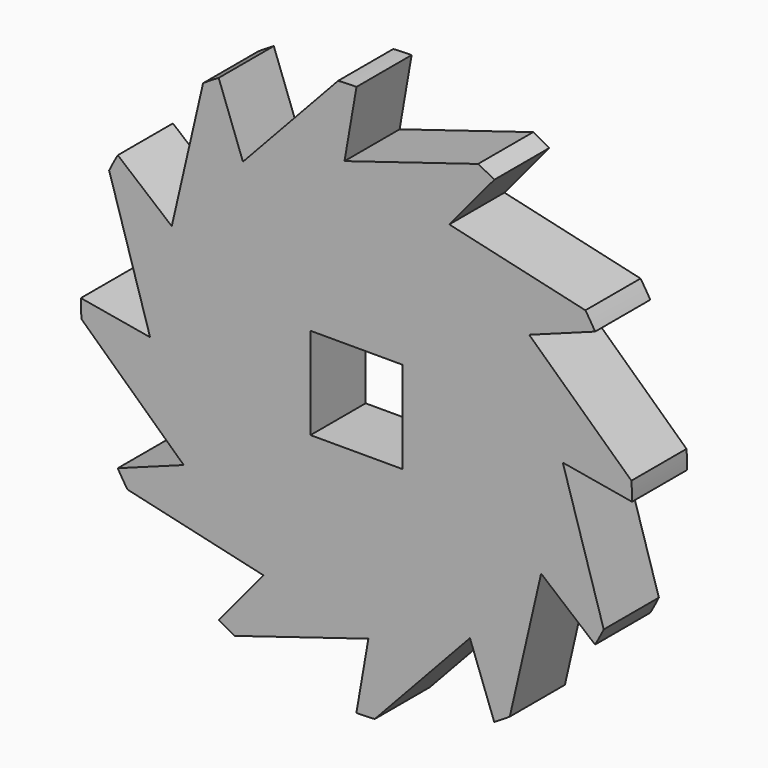
from build123d import *

# Parameters (mm, degrees)
F0_W     = 10
F0_H     = 10
F1_DEPTH = 3.75


with BuildPart() as f1:
    # F0 (on Front) → F1 (new body, symmetric)
    with BuildSketch(Plane.XZ):
        with BuildLine():
            Line((13.240477, 26.920062), (-1.299121, 22.463483))
            Line((-1.299121, 22.463483), (0.005236, 30))
            ThreePointArc((0.005236, 30), (-0.994655, 29.983506), (-1.993441, 29.933697))
            Line((-1.993441, 29.933697), (-12.356813, 18.804386))
            Line((-12.356813, 18.804386), (-14.995465, 25.98338))
            ThreePointArc((-14.995465, 25.98338), (-15.85315, 25.469151), (-16.693219, 24.926621))
            Line((-16.693219, 24.926621), (-20.103507, 10.10667))
            Line((-20.103507, 10.10667), (-25.978144, 15.004534))
            ThreePointArc((-25.978144, 15.004534), (-26.463806, 14.130356), (-26.920062, 13.240477))
            Line((-26.920062, 13.240477), (-22.463483, -1.299121))
            Line((-22.463483, -1.299121), (-30, 0.005236))
            ThreePointArc((-30, 0.005236), (-29.983506, -0.994655), (-29.933697, -1.993441))
            Line((-29.933697, -1.993441), (-18.804386, -12.356813))
            Line((-18.804386, -12.356813), (-25.98338, -14.995465))
            ThreePointArc((-25.98338, -14.995465), (-25.469151, -15.85315), (-24.926621, -16.693219))
            Line((-24.926621, -16.693219), (-10.10667, -20.103507))
            Line((-10.10667, -20.103507), (-15.004534, -25.978144))
            ThreePointArc((-15.004534, -25.978144), (-14.130356, -26.463806), (-13.240477, -26.920062))
            Line((-13.240477, -26.920062), (1.299121, -22.463483))
            Line((1.299121, -22.463483), (-0.005236, -30))
            ThreePointArc((-0.005236, -30), (0.994655, -29.983506), (1.993441, -29.933697))
            Line((1.993441, -29.933697), (12.356813, -18.804386))
            Line((12.356813, -18.804386), (14.995465, -25.98338))
            ThreePointArc((14.995465, -25.98338), (15.85315, -25.469151), (16.693219, -24.926621))
            Line((16.693219, -24.926621), (20.103507, -10.10667))
            Line((20.103507, -10.10667), (25.978144, -15.004534))
            ThreePointArc((25.978144, -15.004534), (26.463806, -14.130356), (26.920062, -13.240477))
            Line((26.920062, -13.240477), (22.463483, 1.299121))
            Line((22.463483, 1.299121), (30, -0.005236))
            ThreePointArc((30, -0.005236), (29.983506, 0.994655), (29.933697, 1.993441))
            Line((29.933697, 1.993441), (18.804386, 12.356813))
            Line((18.804386, 12.356813), (25.98338, 14.995465))
            ThreePointArc((25.98338, 14.995465), (25.469151, 15.85315), (24.926621, 16.693219))
            Line((24.926621, 16.693219), (10.10667, 20.103507))
            Line((10.10667, 20.103507), (15.004534, 25.978144))
            ThreePointArc((15.004534, 25.978144), (14.130356, 26.463806), (13.240477, 26.920062))
        make_face()
        Rectangle(F0_W, F0_H, mode=Mode.SUBTRACT)
    extrude(amount=F1_DEPTH, both=True)


solid = f1.part
